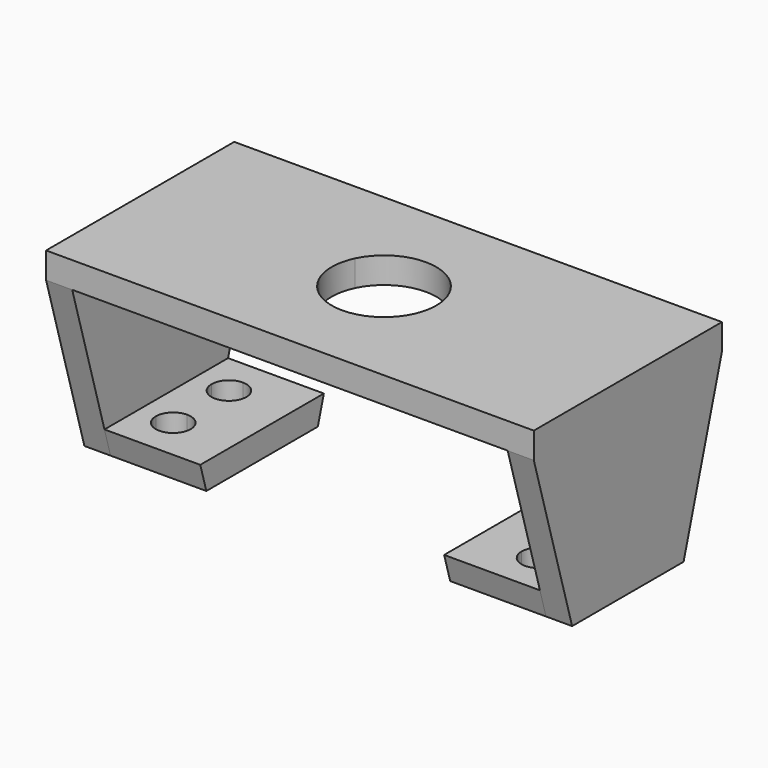
from build123d import *

# Parameters (mm, degrees)
F0_W      = 280
F0_H      = 135
F1_DEPTH  = 15
F3_DEPTH  = 15
F4_W      = 135
F4_H      = 15
F5_DEPTH  = 15
F7_DEPTH  = 110.001
F9_DEPTH  = 55
F11_DEPTH = 55
F13_DEPTH = 25


with BuildPart() as f1:
    # F0 (on Top) → F1 (new body)
    with BuildSketch(Plane.XY):
        with Locations((140, 67.5)):
            Rectangle(F0_W, F0_H)
    extrude(amount=F1_DEPTH)

    # F2 (on face) → F3 (join)
    with BuildSketch(Plane(origin=(0, 0, 0), x_dir=(0, -1, 0), z_dir=(-1, 0, 0))):
        Polygon((0, 0), (-135, 0), (-107.5, -95), (-67.5, -95), (-27.5, -95), align=None)
    extrude(amount=-F3_DEPTH)

    # F4 (on face) → F5 (join)
    with BuildSketch(Plane.YZ.offset(280)):
        Polygon((27.5, -95), (67.5, -95), (107.5, -95), (135, 0), (0, 0), align=None)
        with Locations((67.5, 7.5)):
            Rectangle(F4_W, F4_H)
    extrude(amount=-F5_DEPTH)

    # F6 (on face) → F7 (cut, through all)
    with BuildSketch(Plane.XY.offset(15)):
        with BuildLine():
            ThreePointArc((112.9769395589, 54.4710244302), (140, 37.5), (167.0230604411, 54.4710244302))
            Line((167.0230604411, 54.4710244302), (140, 67.5))
            Line((140, 67.5), (112.9769395589, 54.4710244302))
        make_face()
        with BuildLine():
            Line((140, 67.5), (167.0230604411, 54.4710244302))
            ThreePointArc((167.0230604411, 54.4710244302), (169.2462973146, 60.8176281618), (170, 67.5))
            ThreePointArc((170, 67.5), (169.2462973146, 74.1823718382), (167.0230604411, 80.5289755698))
            Line((167.0230604411, 80.5289755698), (140, 67.5))
        make_face()
        with BuildLine():
            Line((112.9769395589, 54.4710244302), (140, 67.5))
            Line((140, 67.5), (112.9769395589, 80.5289755698))
            ThreePointArc((112.9769395589, 80.5289755698), (110, 67.5), (112.9769395589, 54.4710244302))
        make_face()
        with BuildLine():
            Line((112.9769395589, 80.5289755698), (140, 67.5))
            Line((140, 67.5), (167.0230604411, 80.5289755698))
            ThreePointArc((167.0230604411, 80.5289755698), (140, 97.5), (112.9769395589, 80.5289755698))
        make_face()
    extrude(amount=-F7_DEPTH, mode=Mode.SUBTRACT)

    # F8 (on face) → F9 (join)
    with BuildSketch(Plane.YZ.offset(15)):
        Polygon((111.8421052632, -80), (27.5, -80), (23.1578947368, -80), (27.5, -95), (107.5, -95), align=None)
    extrude(amount=F9_DEPTH)

    # F10 (on face) → F11 (join)
    with BuildSketch(Plane(origin=(265, 0, 0), x_dir=(0, -1, 0), z_dir=(-1, 0, 0))):
        Polygon((-107.5, -95), (-67.5, -95), (-67.5, -80), (-111.8421052632, -80), align=None)
        Polygon((-67.5, -80), (-67.5, -95), (-27.5, -95), (-23.1578947368, -80), align=None)
    extrude(amount=F11_DEPTH)

    # F12 (on face) → F13 (cut)
    with BuildSketch(Plane(origin=(0, 0, -95), x_dir=(1, 0, 0), z_dir=(0, 0, -1))):
        with BuildLine():
            ThreePointArc((35, -97.5), (42.0710678119, -94.5710678119), (45, -87.5))
            Line((45, -87.5), (35, -87.5))
            Line((35, -87.5), (35, -97.5))
        make_face()
        with BuildLine():
            Line((245, -77.5), (245, -87.5))
            Line((245, -87.5), (255, -87.5))
            ThreePointArc((255, -87.5), (252.0710678119, -80.4289321881), (245, -77.5))
        make_face()
        with BuildLine():
            ThreePointArc((245, -77.5), (237.9289321881, -80.4289321881), (235, -87.5))
            Line((235, -87.5), (245, -87.5))
            Line((245, -87.5), (245, -77.5))
        make_face()
        with BuildLine():
            Line((255, -87.5), (245, -87.5))
            Line((245, -87.5), (245, -97.5))
            ThreePointArc((245, -97.5), (252.0710678119, -94.5710678119), (255, -87.5))
        make_face()
        with BuildLine():
            Line((245, -87.5), (235, -87.5))
            ThreePointArc((235, -87.5), (237.9289321881, -94.5710678119), (245, -97.5))
            Line((245, -97.5), (245, -87.5))
        make_face()
        with BuildLine():
            Line((35, -87.5), (45, -87.5))
            ThreePointArc((45, -87.5), (42.0710678119, -80.4289321881), (35, -77.5))
            Line((35, -77.5), (35, -87.5))
        make_face()
        with BuildLine():
            Line((35, -97.5), (35, -87.5))
            Line((35, -87.5), (25, -87.5))
            ThreePointArc((25, -87.5), (27.9289321881, -94.5710678119), (35, -97.5))
        make_face()
        with BuildLine():
            Line((35, -87.5), (35, -77.5))
            ThreePointArc((35, -77.5), (27.9289321881, -80.4289321881), (25, -87.5))
            Line((25, -87.5), (35, -87.5))
        make_face()
        with BuildLine():
            ThreePointArc((35, -57.5), (42.0710678119, -54.5710678119), (45, -47.5))
            Line((45, -47.5), (35, -47.5))
            Line((35, -47.5), (35, -57.5))
        make_face()
        with BuildLine():
            Line((35, -57.5), (35, -47.5))
            Line((35, -47.5), (25, -47.5))
            ThreePointArc((25, -47.5), (27.9289321881, -54.5710678119), (35, -57.5))
        make_face()
        with BuildLine():
            Line((35, -47.5), (35, -37.5))
            ThreePointArc((35, -37.5), (27.9289321881, -40.4289321881), (25, -47.5))
            Line((25, -47.5), (35, -47.5))
        make_face()
        with BuildLine():
            ThreePointArc((45, -47.5), (42.0710678119, -40.4289321881), (35, -37.5))
            Line((35, -37.5), (35, -47.5))
            Line((35, -47.5), (45, -47.5))
        make_face()
        with BuildLine():
            Line((245, -47.5), (235, -47.5))
            ThreePointArc((235, -47.5), (237.9289321881, -54.5710678119), (245, -57.5))
            Line((245, -57.5), (245, -47.5))
        make_face()
        with BuildLine():
            Line((255, -47.5), (245, -47.5))
            Line((245, -47.5), (245, -57.5))
            ThreePointArc((245, -57.5), (252.0710678119, -54.5710678119), (255, -47.5))
        make_face()
        with BuildLine():
            ThreePointArc((255, -47.5), (252.0710678119, -40.4289321881), (245, -37.5))
            Line((245, -37.5), (245, -47.5))
            Line((245, -47.5), (255, -47.5))
        make_face()
        with BuildLine():
            Line((245, -47.5), (245, -37.5))
            ThreePointArc((245, -37.5), (237.9289321881, -40.4289321881), (235, -47.5))
            Line((235, -47.5), (245, -47.5))
        make_face()
    extrude(amount=-F13_DEPTH, mode=Mode.SUBTRACT)


solid = f1.part
